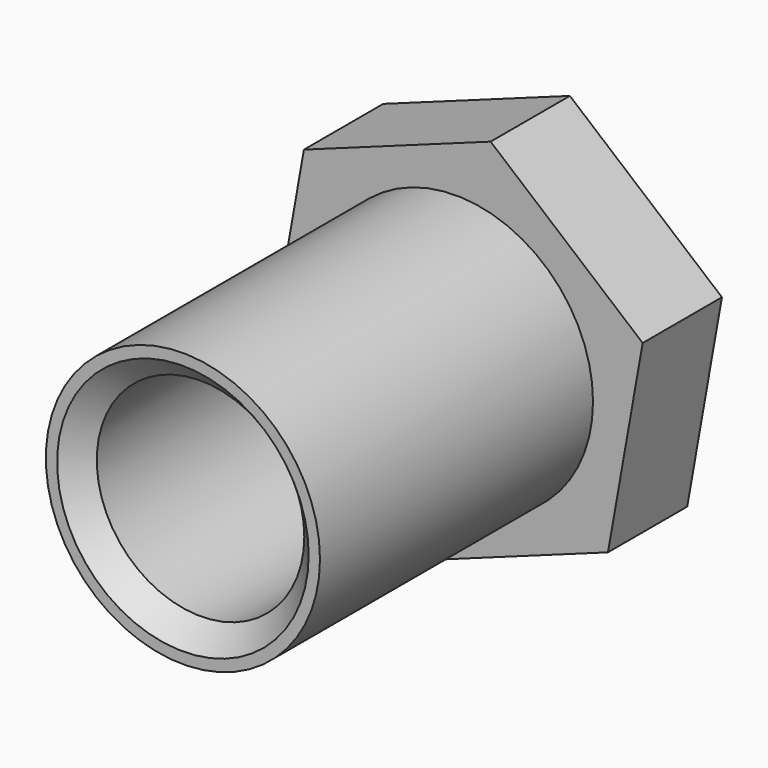
from build123d import *

# Parameters (mm, degrees)
F0_R     = 6.3246
F0_R_2   = 4.7879
F1_DEPTH = 20.32
F2_DEPTH = 4.572
F3_SIZE  = 1.016


with BuildPart() as f1:
    # F0 (on Front) → F1 (new body)
    with BuildSketch(Plane.XZ):
        Circle(F0_R)
        Circle(F0_R_2, mode=Mode.SUBTRACT)
    extrude(amount=F1_DEPTH)

    # F0 (on Front) → F2 (join)
    with BuildSketch(Plane.XZ):
        Polygon((7.015579, -5.898039), (8.615641, 3.12665), (1.600062, 9.024689), (-7.015579, 5.898039), (-8.615641, -3.12665), (-1.600062, -9.024689), align=None)
        Circle(F0_R, mode=Mode.SUBTRACT)
    extrude(amount=F2_DEPTH)

    # F3
    f3_edges = [f1.edges().sort_by_distance(p)[0] for p in [
        (-4.7879, -20.32, 0),
    ]]
    chamfer(f3_edges, length=F3_SIZE)


solid = f1.part
